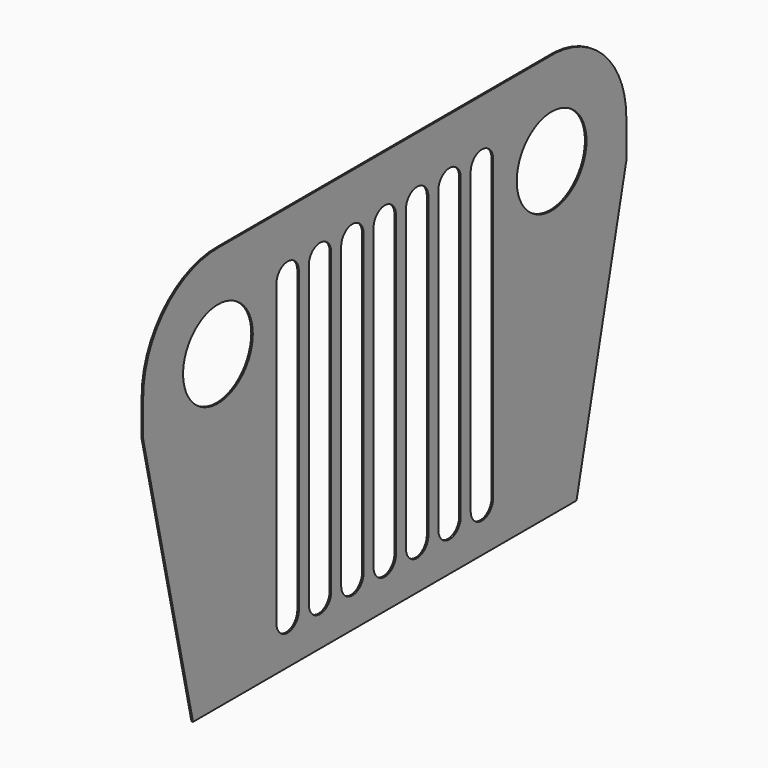
from build123d import *

# Parameters (mm, degrees)
F0_R     = 88.9
F1_DEPTH = 3.175


with BuildPart() as f1:
    # F0 (on Right) → F1 (new body)
    with BuildSketch(Plane.YZ):
        with BuildLine():
            Line((640.988467, 558.8), (640.988181, 635))
            ThreePointArc((640.988181, 635), (589.190891, 765.909542), (461.639941, 825.5))
            Line((461.639941, 825.5), (-395.486476, 825.5))
            ThreePointArc((-395.486476, 825.5), (-533.366758, 771.456223), (-590.911533, 635))
            Line((-590.911533, 635), (-590.911533, 558.8))
            Line((-590.911533, 558.8), (-463.911533, 0))
            Line((-463.911533, 0), (513.988467, 0))
            Line((513.988467, 0), (640.988467, 558.8))
        make_face()
        with BuildLine():
            ThreePointArc((-251.186533, 700.2947), (-222.611533, 728.8697), (-194.036533, 700.2947))
            Line((-194.036533, 700.2947), (-194.036533, 90.480119))
            ThreePointArc((-194.036533, 90.480119), (-222.611533, 61.905119), (-251.186533, 90.480119))
            Line((-251.186533, 90.480119), (-251.186533, 700.2947))
        make_face(mode=Mode.SUBTRACT)
        with BuildLine():
            ThreePointArc((-168.636533, 700.328295), (-140.061533, 728.903295), (-111.486533, 700.328295))
            Line((-111.486533, 700.328295), (-111.486533, 90.513714))
            ThreePointArc((-111.486533, 90.513714), (-140.061533, 61.938714), (-168.636533, 90.513714))
            Line((-168.636533, 90.513714), (-168.636533, 700.328295))
        make_face(mode=Mode.SUBTRACT)
        with BuildLine():
            ThreePointArc((-86.086533, 700.2947), (-57.511533, 728.8697), (-28.936533, 700.2947))
            Line((-28.936533, 700.2947), (-28.936533, 90.480119))
            ThreePointArc((-28.936533, 90.480119), (-57.511533, 61.905119), (-86.086533, 90.480119))
            Line((-86.086533, 90.480119), (-86.086533, 700.2947))
        make_face(mode=Mode.SUBTRACT)
        with BuildLine():
            ThreePointArc((-3.536533, 700.2947), (25.038467, 728.8697), (53.613467, 700.2947))
            Line((53.613467, 700.2947), (53.613467, 90.480119))
            ThreePointArc((53.613467, 90.480119), (25.038467, 61.905119), (-3.536533, 90.480119))
            Line((-3.536533, 90.480119), (-3.536533, 700.2947))
        make_face(mode=Mode.SUBTRACT)
        with BuildLine():
            ThreePointArc((79.013467, 700.261105), (107.588467, 728.836105), (136.163467, 700.261105))
            Line((136.163467, 700.261105), (136.163467, 90.446524))
            ThreePointArc((136.163467, 90.446524), (107.588467, 61.871524), (79.013467, 90.446524))
            Line((79.013467, 90.446524), (79.013467, 700.261105))
        make_face(mode=Mode.SUBTRACT)
        with BuildLine():
            ThreePointArc((161.563467, 700.2947), (190.138467, 728.8697), (218.713467, 700.2947))
            Line((218.713467, 700.2947), (218.713467, 90.480119))
            ThreePointArc((218.713467, 90.480119), (190.138467, 61.905119), (161.563467, 90.480119))
            Line((161.563467, 90.480119), (161.563467, 700.2947))
        make_face(mode=Mode.SUBTRACT)
        with BuildLine():
            ThreePointArc((244.113467, 700.261105), (272.778674, 728.655262), (301.263467, 700.080119))
            Line((301.263467, 700.080119), (301.263467, 90.480119))
            ThreePointArc((301.263467, 90.480119), (272.705255, 61.905114), (244.113467, 90.446524))
            Line((244.113467, 90.446524), (244.113467, 700.261105))
        make_face(mode=Mode.SUBTRACT)
        with Locations((-400.349473, 635)):
            Circle(F0_R, mode=Mode.SUBTRACT)
        with Locations((450.488461, 635.326673)):
            Circle(F0_R, mode=Mode.SUBTRACT)
    extrude(amount=F1_DEPTH)


solid = f1.part
